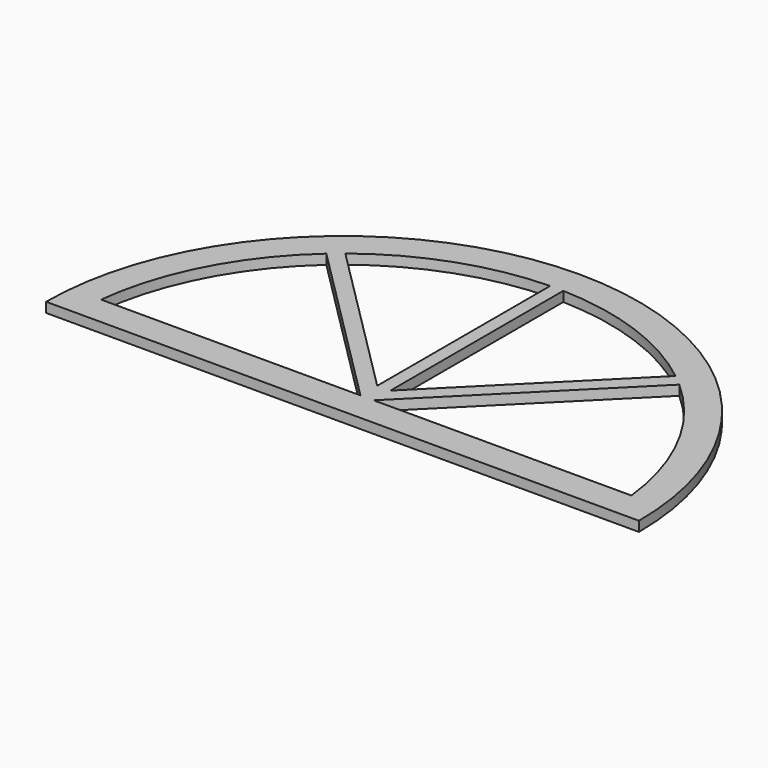
from build123d import *

# Parameters (mm, degrees)
F1_DEPTH = 25.4


with BuildPart() as f1:
    # F0 (on Top) → F1 (new body)
    with BuildSketch(Plane.XY):
        with BuildLine():
            ThreePointArc((593.7185342312, 713.2225054204), (54.903166967, 490.0378726846), (-168.2814657688, -48.7774945796))
            Line((-168.2814657688, -48.7774945796), (593.7185342312, -48.7774945796))
            Line((593.7185342312, -48.7774945796), (1355.7185342312, -48.7774945796))
            ThreePointArc((1355.7185342312, -48.7774945796), (1132.5339014953, 490.0378726846), (593.7185342312, 713.2225054204))
        make_face()
        with BuildLine():
            Line((578.9150146893, 27.4225054204), (558.8869975048, 27.4225054204))
            Line((558.8869975048, 27.4225054204), (-87.8349853107, 27.4225054204))
            ThreePointArc((-87.8349853108, 27.4225054204), (-14.5690429068, 267.9366722959), (140.4555796865, 465.8819404232))
            Line((140.4555796865, 465.8819404232), (578.9150146893, 27.4225054204))
        make_face(mode=Mode.SUBTRACT)
        with BuildLine():
            ThreePointArc((1049.2347336709, 463.8887048602), (1202.6992993376, 266.6017497128), (1275.2720537731, 27.4225054204))
            Line((1275.2720537731, 27.4225054204), (612.7685342312, 27.4225054204))
            Line((612.7685342312, 27.4225054204), (1049.2347336709, 463.8887048602))
        make_face(mode=Mode.SUBTRACT)
        with BuildLine():
            Line((578.9150146893, 636.8627141372), (578.9150146893, 81.3040334204))
            Line((578.9150146893, 81.3040334204), (386.5735172011, 273.5404429351))
            Line((386.5735172011, 273.5404429351), (169.7362173216, 490.2592712796))
            ThreePointArc((169.7362173216, 490.2592712796), (362.4040406687, 596.8348078651), (578.9150146893, 636.8627141372))
        make_face(mode=Mode.SUBTRACT)
        with BuildLine():
            Line((1019.9483620731, 488.4838699888), (917.7654260406, 386.3009339562))
            Line((917.7654260406, 386.3009339562), (612.7685342312, 81.3040421469))
            Line((612.7685342312, 81.3040421469), (612.7685342312, 636.757871029))
            ThreePointArc((612.7685342312, 636.757871029), (828.3774912664, 595.6267371595), (1019.9483620731, 488.4838699888))
        make_face(mode=Mode.SUBTRACT)
    extrude(amount=F1_DEPTH)


solid = f1.part
